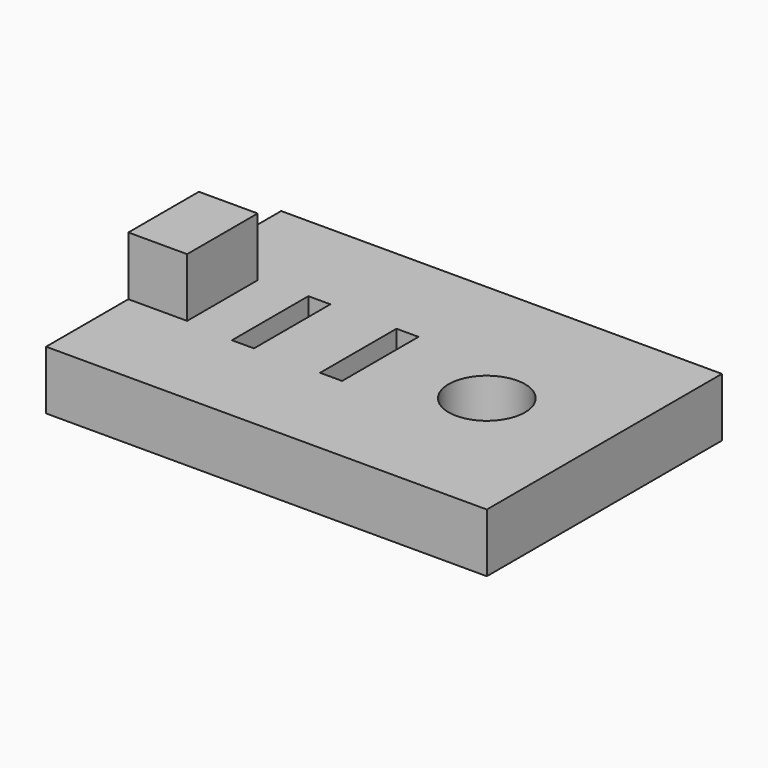
from build123d import *

# Parameters (mm, degrees)
F0_W     = 30
F0_H     = 20
F1_DEPTH = 4
F2_R     = 2.6
F2_W     = 1.5
F2_H     = 6.5
F3_DEPTH = 4.001
F4_W     = 4
F4_H     = 6
F5_DEPTH = 4


with BuildPart() as f1:
    # F0 (on Top) → F1 (new body)
    with BuildSketch(Plane.XY):
        Rectangle(F0_W, F0_H)
    extrude(amount=F1_DEPTH)

    # F2 (on face) → F3 (cut, through all)
    with BuildSketch(Plane.XY.offset(4)):
        with Locations((7, 0)):
            Circle(F2_R)
        with Locations((-1, 0)):
            Rectangle(F2_W, F2_H)
        with Locations((-7, 0)):
            Rectangle(F2_W, F2_H)
    extrude(amount=-F3_DEPTH, mode=Mode.SUBTRACT)

    # F4 (on face) → F5 (join)
    with BuildSketch(Plane.XY.offset(4)):
        with Locations((-13, 0)):
            Rectangle(F4_W, F4_H)
    extrude(amount=F5_DEPTH)


solid = f1.part
